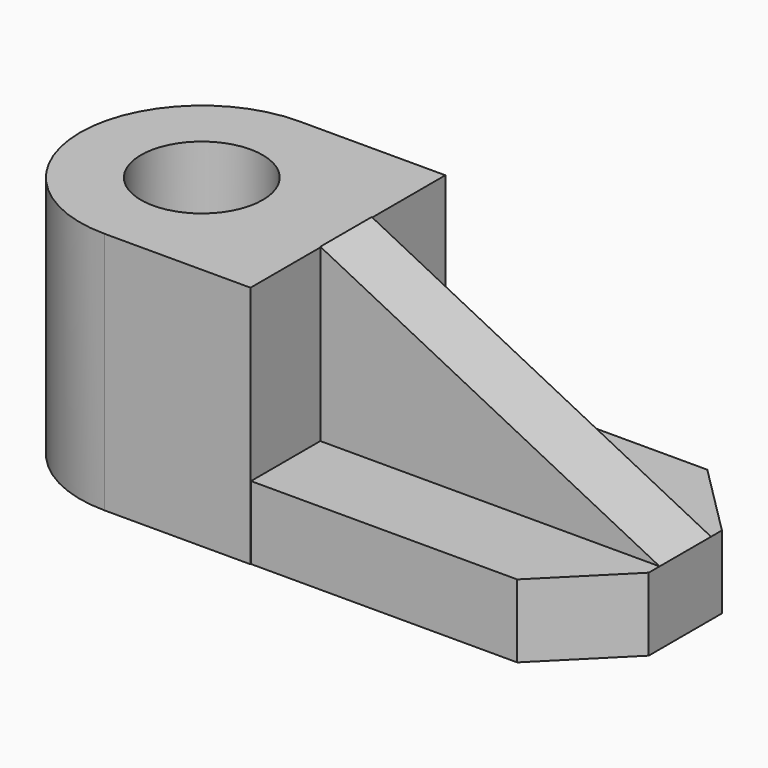
from build123d import *

# Parameters (mm, degrees)
F1_DEPTH = 30
F2_DEPTH = 30
F3_W     = 42
F3_H     = 29.2733010386
F4_DEPTH = 9
F5_SIZE  = 9
F6_W     = 41.7983737148
F6_H     = 3.9587677456
F7_DEPTH = 21.082
F9_DEPTH = 25.4


with BuildPart() as f1:
    # F0 (on Top) → F1 (new body)
    with BuildSketch(Plane.XY):
        with BuildLine():
            Line((-48.0520544208, -9.4887592643), (-48.0520544208, -16.9887592643))
            Line((-48.0520544208, -16.9887592643), (-30.0520544208, -16.9887592643))
            Line((-30.0520544208, -16.9887592643), (-30.0520544208, 13.0112407357))
            Line((-30.0520544208, 13.0112407357), (-48.0520544208, 13.0112407357))
            Line((-48.0520544208, 13.0112407357), (-48.0520544208, 5.5112407357))
            ThreePointArc((-48.0520544208, 5.5112407357), (-42.7487535619, 3.3145415945), (-40.5520544208, -1.9887592643))
            ThreePointArc((-40.5520544208, -1.9887592643), (-42.7487535619, -7.2920601232), (-48.0520544208, -9.4887592643))
        make_face()
    extrude(amount=F1_DEPTH)

    # F0 (on Top) → F2 (join)
    with BuildSketch(Plane.XY):
        with BuildLine():
            ThreePointArc((-48.0520544208, 13.0112407357), (-63.0520544208, -1.9887592643), (-48.0520544208, -16.9887592643))
            Line((-48.0520544208, -16.9887592643), (-48.0520544208, -9.4887592643))
            ThreePointArc((-48.0520544208, -9.4887592643), (-55.5520544208, -1.9887592643), (-48.0520544208, 5.5112407357))
            Line((-48.0520544208, 5.5112407357), (-48.0520544208, 13.0112407357))
        make_face()
    extrude(amount=F2_DEPTH)

    # F3 (on Top) → F4 (join)
    with BuildSketch(Plane.XY):
        with Locations((-9.253680706, -2.2817431018)):
            Rectangle(F3_W, F3_H)
    extrude(amount=F4_DEPTH)

    # F5
    f5_edges = [f1.edges().sort_by_distance(p)[0] for p in [
        (11.746319, -16.918394, 4.5),
        (11.746319, 12.354907, 4.5),
    ]]
    chamfer(f5_edges, length=F5_SIZE)

    # F6 (on face) → F7 (join)
    with BuildSketch(Plane.XY.offset(9)):
        with Locations((-9.1528675634, -0.302359229)):
            Rectangle(F6_W, F6_H)
        with Locations((-9.1528675634, -4.2611269746)):
            Rectangle(F6_W, F6_H)
    extrude(amount=F7_DEPTH)

    # F8 (on face) → F9 (cut)
    with BuildSketch(Plane(origin=(0, 1.6770246439, 0), x_dir=(-1, 0, 0), z_dir=(0, 1, 0))):
        Polygon((-11.746319294, 30.082), (-11.746319294, 9), (30.0520544208, 30.082), align=None)
    extrude(amount=-F9_DEPTH, mode=Mode.SUBTRACT)


solid = f1.part
